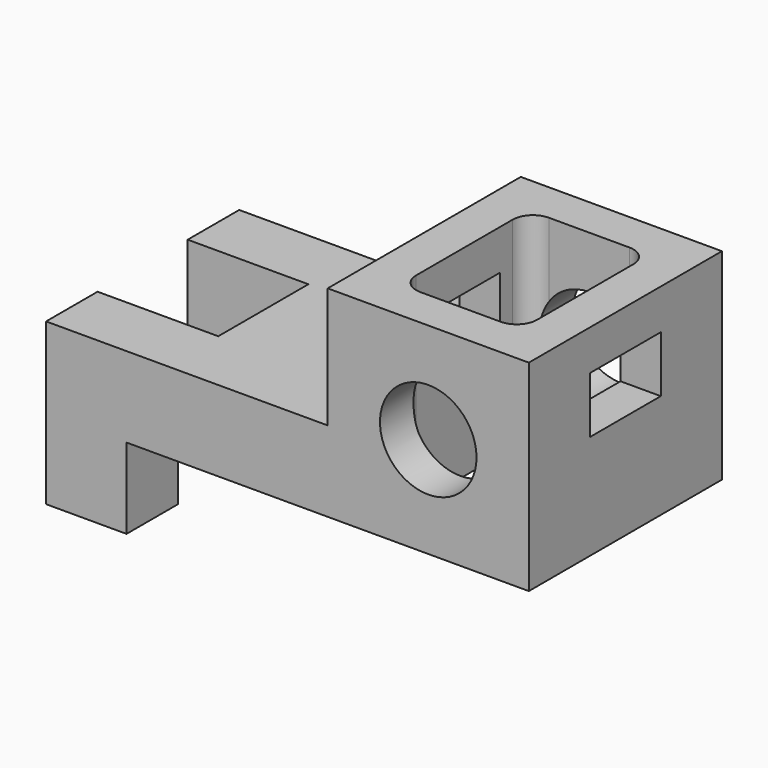
from build123d import *

# Parameters (mm, degrees)
F1_DEPTH = 600
F2_W     = 600
F2_H     = 280
F3_DEPTH = 400.001
F5_DEPTH = 700.001
F6_R     = 120
F7_DEPTH = 600.001
F8_W     = 220
F8_H     = 140
F9_DEPTH = 1200.001


with BuildPart() as f1:
    # F0 (on Front) → F1 (new body)
    with BuildSketch(Plane.XZ):
        Polygon((-70.953188, 0), (0, 0), (929.046812, 0), (929.046812, 500), (429.046812, 500), (429.046812, 200), (-270.953188, 200), (-270.953188, -200), (-70.953188, -200), align=None)
    extrude(amount=F1_DEPTH)

    # F2 (on face) → F3 (cut, through all)
    with BuildSketch(Plane.XY.offset(200)):
        with Locations((-270.953188, -300)):
            Rectangle(F2_W, F2_H)
    extrude(amount=-F3_DEPTH, mode=Mode.SUBTRACT)

    # F4 (on face) → F5 (cut, through all)
    with BuildSketch(Plane.XY.offset(500)):
        with BuildLine():
            ThreePointArc((529.046812, -450), (543.691473, -485.355339), (579.046812, -500))
            Line((579.046812, -500), (779.046812, -500))
            ThreePointArc((779.046812, -500), (814.402152, -485.355339), (829.046812, -450))
            Line((829.046812, -450), (829.046812, -150))
            ThreePointArc((829.046812, -150), (814.402152, -114.644661), (779.046812, -100))
            Line((779.046812, -100), (579.046812, -100))
            ThreePointArc((579.046812, -100), (543.691473, -114.644661), (529.046812, -150))
            Line((529.046812, -150), (529.046812, -450))
        make_face()
    extrude(amount=-F5_DEPTH, mode=Mode.SUBTRACT)

    # F6 (on face) → F7 (cut, through all)
    with BuildSketch(Plane.XZ.offset(600)):
        with Locations((679.046812, 250)):
            Circle(F6_R)
    extrude(amount=-F7_DEPTH, mode=Mode.SUBTRACT)

    # F8 (on face) → F9 (cut, through all)
    with BuildSketch(Plane.YZ.offset(929.046812)):
        with Locations((-300, 330)):
            Rectangle(F8_W, F8_H)
    extrude(amount=-F9_DEPTH, mode=Mode.SUBTRACT)


solid = f1.part
